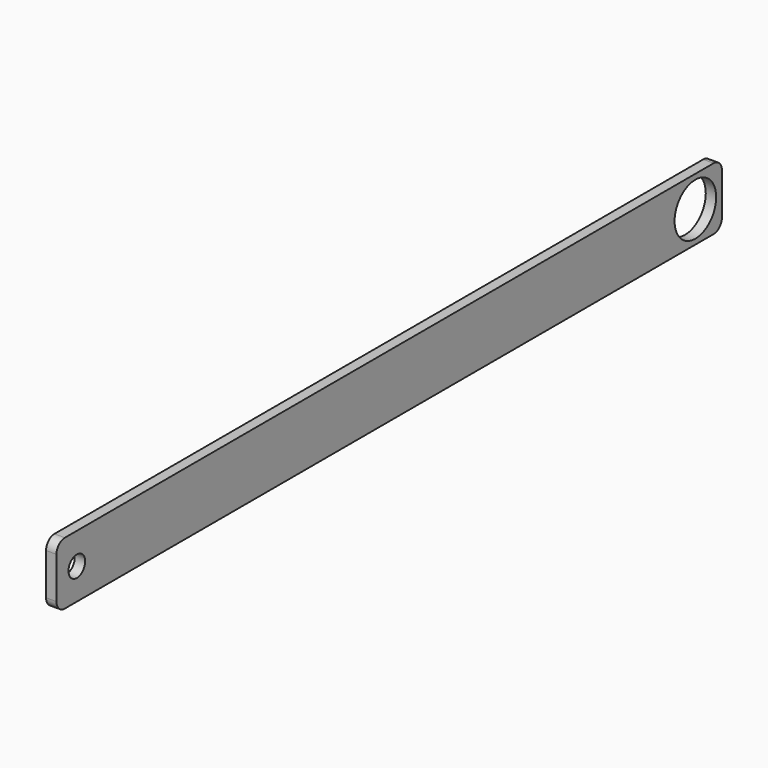
from build123d import *

# Parameters (mm, degrees)
F0_R     = 6.35
F0_R_2   = 15.875
F1_DEPTH = 3.175


with BuildPart() as f1:
    # F0 (on Right) → F1 (new body, symmetric)
    with BuildSketch(Plane.YZ):
        with BuildLine():
            Line((247.65, 19.05), (-247.65, 19.05))
            ThreePointArc((-247.65, 19.05), (-252.140128, 17.190128), (-254, 12.7))
            Line((-254, 12.7), (-254, -12.7))
            ThreePointArc((-254, -12.7), (-252.140128, -17.190128), (-247.65, -19.05))
            Line((-247.65, -19.05), (247.65, -19.05))
            ThreePointArc((247.65, -19.05), (252.140128, -17.190128), (254, -12.7))
            Line((254, -12.7), (254, 12.7))
            ThreePointArc((254, 12.7), (252.140128, 17.190128), (247.65, 19.05))
        make_face()
        with Locations((-238.477692, 0)):
            Circle(F0_R, mode=Mode.SUBTRACT)
        with Locations((233.732209, 0)):
            Circle(F0_R_2, mode=Mode.SUBTRACT)
    extrude(amount=F1_DEPTH, both=True)


solid = f1.part
